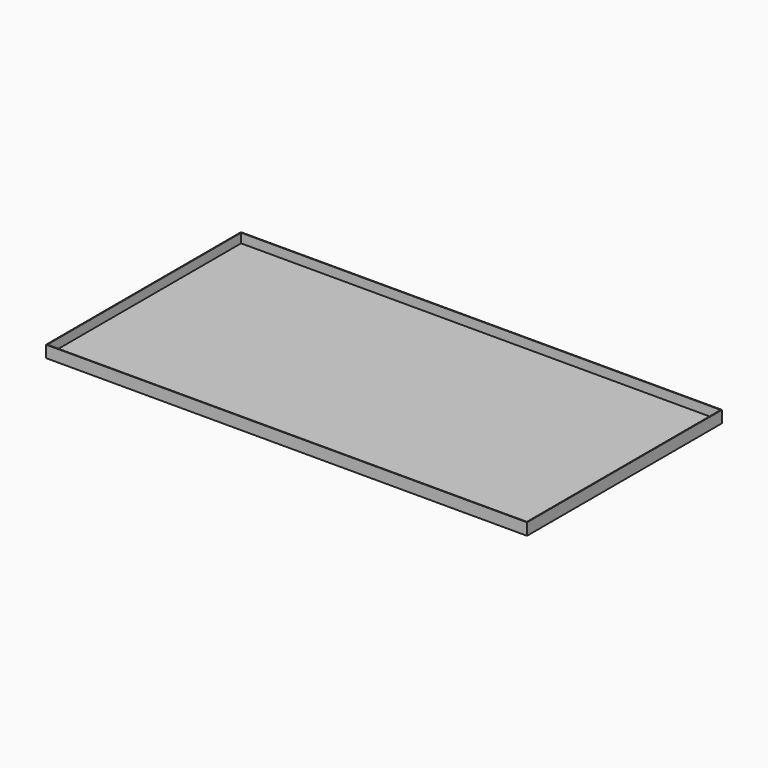
from build123d import *

# Parameters (mm, degrees)
F0_W     = 1955.8
F0_H     = 990.6
F1_DEPTH = 10.16
F3_DEPTH = 38.1


with BuildPart() as f1:
    # F0 (on Top) → F1 (new body)
    with BuildSketch(Plane.XY):
        with Locations((977.9, 495.3)):
            Rectangle(F0_W, F0_H)
    extrude(amount=F1_DEPTH)

    # F2 (on face) → F3 (join)
    with BuildSketch(Plane.XY.offset(10.16)):
        Polygon((2.54, 125.157505), (0, 125.157505), (0, 0), (9.51278, 0), (9.51278, 2.54), (2.54, 2.54), align=None)
        Polygon((0, 990.6), (0, 125.157505), (2.54, 125.157505), (2.54, 988.06), (1948.808074, 988.06), (1948.808074, 990.6), align=None)
        Polygon((1955.8, 990.6), (1948.808074, 990.6), (1948.808074, 988.06), (1953.26, 988.06), (1953.26, 977.438092), (1955.8, 977.438092), align=None)
        Polygon((9.51278, 2.54), (9.51278, 0), (1955.8, 0), (1955.8, 977.438092), (1953.26, 977.438092), (1953.26, 2.54), align=None)
    extrude(amount=F3_DEPTH)


solid = f1.part
